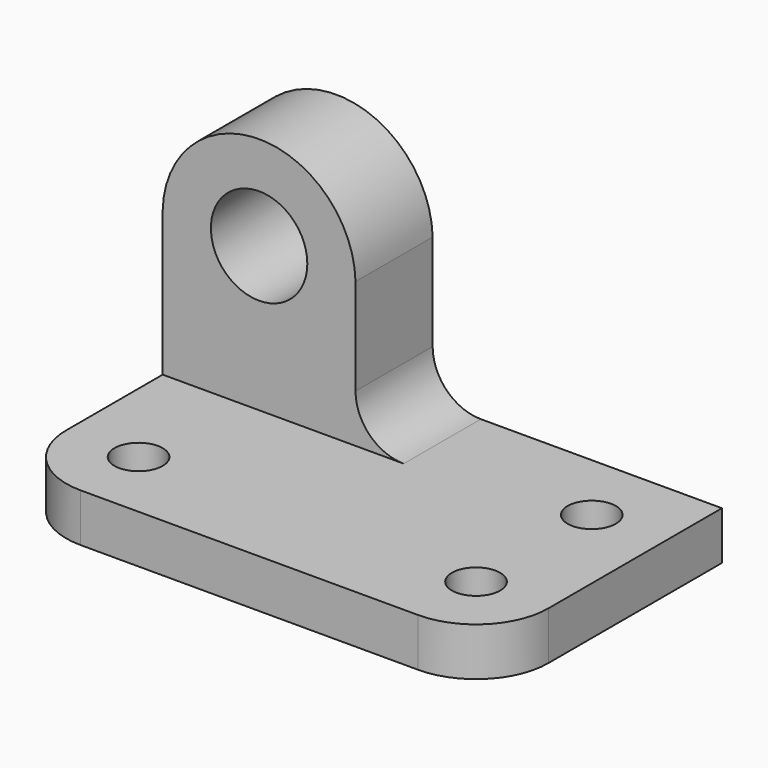
from build123d import *

# Parameters (mm, degrees)
F0_W      = 63.5
F0_H      = 38.1
F1_DEPTH  = 6.35
F2_R      = 3.175
F3_DEPTH  = 25.4
F4_W      = 25.4
F4_H      = 12.7
F5_DEPTH  = 31.75
F6_R      = 6.35
F7_DEPTH  = 25.4
F8_R      = 9.525
F9_W      = 12.7
F9_H      = 12.7
F10_DEPTH = 12.7
F12_DEPTH = 25.4


with BuildPart() as f1:
    # F0 (on Top) → F1 (new body)
    with BuildSketch(Plane.XY):
        with Locations((-38.658564874, 19.05)):
            Rectangle(F0_W, F0_H)
    extrude(amount=F1_DEPTH)

    # F2 (on face) → F3 (cut)
    with BuildSketch(Plane.XY.offset(6.35)):
        with Locations((-16.433564874, 28.575)):
            Circle(F2_R)
        with Locations((-16.433564874, 9.525)):
            Circle(F2_R)
        with Locations((-60.883564874, 9.525)):
            Circle(F2_R)
    extrude(amount=-F3_DEPTH, mode=Mode.SUBTRACT)

    # F4 (on face) → F5 (join)
    with BuildSketch(Plane.XY.offset(6.35)):
        with Locations((-57.708564874, 31.75)):
            Rectangle(F4_W, F4_H)
    extrude(amount=F5_DEPTH)

    # F6 (on face) → F7 (cut)
    with BuildSketch(Plane.XZ.offset(-25.4)):
        with Locations((-57.708564874, 25.4)):
            Circle(F6_R)
        with BuildLine():
            ThreePointArc((-70.408564874, 25.4), (-57.708564874, 37.7975720317), (-45.008564874, 25.4))
            Line((-45.008564874, 25.4), (-45.008564874, 38.1))
            Line((-45.008564874, 38.1), (-70.408564874, 38.1))
            Line((-70.408564874, 38.1), (-70.408564874, 25.4))
        make_face()
    extrude(amount=-F7_DEPTH, mode=Mode.SUBTRACT)

    # F8
    f8_edges = [f1.edges().sort_by_distance(p)[0] for p in [
        (-6.908565, 0, 3.175),
        (-70.408565, 0, 3.175),
    ]]
    fillet(f8_edges, radius=F8_R)

    # F9 (on face) → F10 (join)
    with BuildSketch(Plane.YZ.offset(-45.008564874)):
        with Locations((31.75, 12.7)):
            Rectangle(F9_W, F9_H)
    extrude(amount=F10_DEPTH)

    # F11 (on face) → F12 (cut)
    with BuildSketch(Plane.XZ.offset(-25.4)):
        with BuildLine():
            Line((-32.308564874, 19.05), (-38.658564874, 19.05))
            ThreePointArc((-38.658564874, 19.05), (-34.1684368135, 17.1901280605), (-32.308564874, 12.7))
            Line((-32.308564874, 12.7), (-32.308564874, 19.05))
        make_face()
        with BuildLine():
            Line((-38.658564874, 19.05), (-45.008564874, 19.05))
            Line((-45.008564874, 19.05), (-45.008564874, 12.7))
            ThreePointArc((-45.008564874, 12.7), (-43.1486929345, 17.1901280605), (-38.658564874, 19.05))
        make_face()
        with BuildLine():
            ThreePointArc((-32.308564874, 12.7), (-34.1684368135, 8.2098719395), (-38.658564874, 6.35))
            Line((-38.658564874, 6.35), (-32.308564874, 6.35))
            Line((-32.308564874, 6.35), (-32.308564874, 12.7))
        make_face()
        with BuildLine():
            ThreePointArc((-38.658564874, 19.05), (-43.1486929345, 17.1901280605), (-45.008564874, 12.7))
            ThreePointArc((-45.008564874, 12.7), (-43.1486929345, 8.2098719395), (-38.658564874, 6.35))
            ThreePointArc((-38.658564874, 6.35), (-34.1684368135, 8.2098719395), (-32.308564874, 12.7))
            ThreePointArc((-32.308564874, 12.7), (-34.1684368135, 17.1901280605), (-38.658564874, 19.05))
        make_face()
    extrude(amount=-F12_DEPTH, mode=Mode.SUBTRACT)


solid = f1.part
